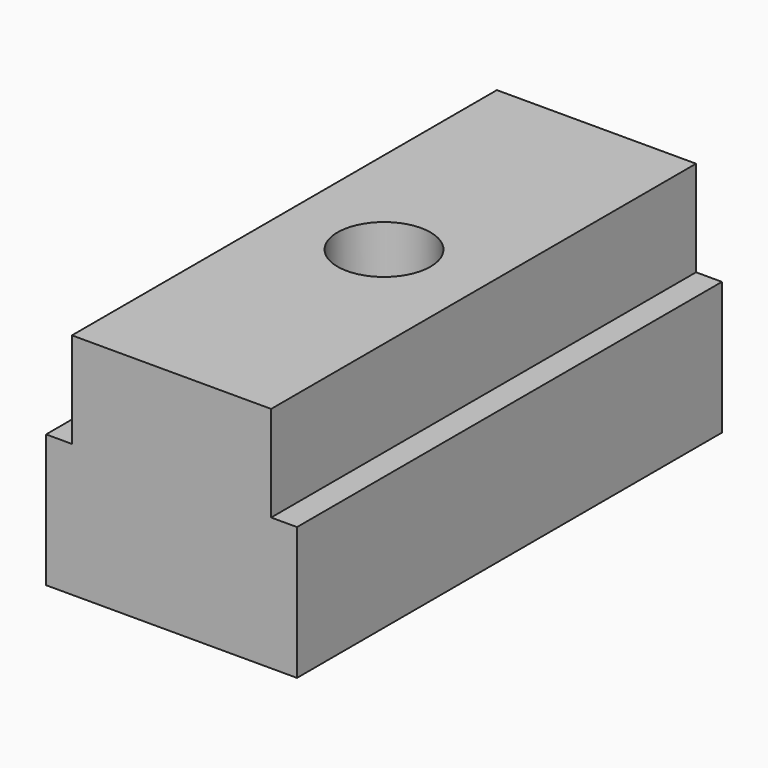
from build123d import *

# Parameters (mm, degrees)
F0_W     = 9.525
F0_H     = 4.572
F1_DEPTH = 25.4
F2_R     = 2.2225
F3_DEPTH = 10.923
F4_R     = 4.0386
F5_DEPTH = 5.08


with BuildPart() as f1:
    # F0 (on Front) → F1 (new body)
    with BuildSketch(Plane.XZ):
        with Locations((4.7625, 2.286)):
            Rectangle(F0_W, F0_H)
        Polygon((9.525, 0), (0, 0), (-1.2375, 0), (-1.2375, -6.35), (10.7625, -6.35), (10.7625, 0), align=None)
    extrude(amount=F1_DEPTH)

    # F2 (on face) → F3 (cut, through all)
    with BuildSketch(Plane.XY.offset(4.572)):
        with Locations((4.7625, -12.7)):
            Circle(F2_R)
    extrude(amount=-F3_DEPTH, mode=Mode.SUBTRACT)

    # F4 (on face) → F5 (cut)
    with BuildSketch(Plane(origin=(0, 0, -6.35), x_dir=(1, 0, 0), z_dir=(0, 0, -1))):
        with Locations((4.7625, 12.7)):
            Circle(F4_R)
    extrude(amount=-F5_DEPTH, mode=Mode.SUBTRACT)


solid = f1.part
